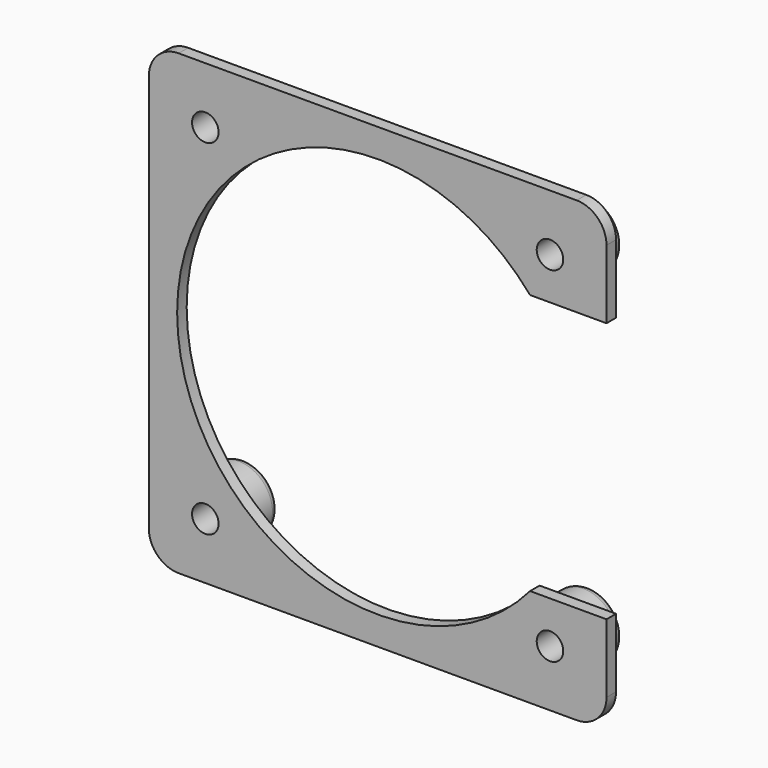
from build123d import *

# Parameters (mm, degrees)
F1_DEPTH = 1.016
F2_R     = 2.8575
F3_DEPTH = 3.2004
F5_D     = 2.2606
F6_R     = 0.635


with BuildPart() as f1:
    # F0 (on Front) → F1 (new body)
    with BuildSketch(Plane.XZ):
        with BuildLine():
            ThreePointArc((0, 2.54), (0.7439487758, 0.7439487758), (2.54, 0))
            Line((2.54, 0), (36.449, 0))
            ThreePointArc((36.449, 0), (38.2450512242, 0.7439487758), (38.989, 2.54))
            Line((38.989, 2.54), (38.989, 8.3947))
            Line((38.989, 8.3947), (32.4780311919, 8.3947))
            ThreePointArc((32.4780311919, 8.3947), (2.413, 19.4945), (32.4780311919, 30.5943))
            Line((32.4780311919, 30.5943), (38.989, 30.5943))
            Line((38.989, 30.5943), (38.989, 36.449))
            ThreePointArc((38.989, 36.449), (38.2450512242, 38.2450512242), (36.449, 38.989))
            Line((36.449, 38.989), (2.54, 38.989))
            ThreePointArc((2.54, 38.989), (0.7439487758, 38.2450512242), (0, 36.449))
            Line((0, 36.449), (0, 2.54))
        make_face()
    extrude(amount=F1_DEPTH)

    # F2 (on face) → F3 (join)
    with BuildSketch(Plane(origin=(0, 0, 0), x_dir=(-1, 0, 0), z_dir=(0, 1, 0))):
        with Locations((-34.1757, 34.1757)):
            Circle(F2_R)
        with Locations((-4.8133, 34.1757)):
            Circle(F2_R)
        with Locations((-4.8133, 4.8133)):
            Circle(F2_R)
        with Locations((-34.1757, 4.8133)):
            Circle(F2_R)
    extrude(amount=F3_DEPTH)

    # F5 (through all)
    with Locations(Plane(origin=(0, 3.2004, 0), x_dir=(-1, 0, 0), z_dir=(0, 1, 0))):
        with Locations((-34.1757, 34.1757), (-4.8133, 4.8133), (-34.1757, 4.8133), (-4.8133, 34.1757)):
            Hole(F5_D / 2)

    # F6
    f6_edges = [f1.edges().sort_by_distance(p)[0] for p in [
        (37.0332, 3.2004, 34.1757),
        (7.6708, 3.2004, 34.1757),
        (7.6708, 3.2004, 4.8133),
        (37.0332, 3.2004, 4.8133),
    ]]
    fillet(f6_edges, radius=F6_R)


solid = f1.part
